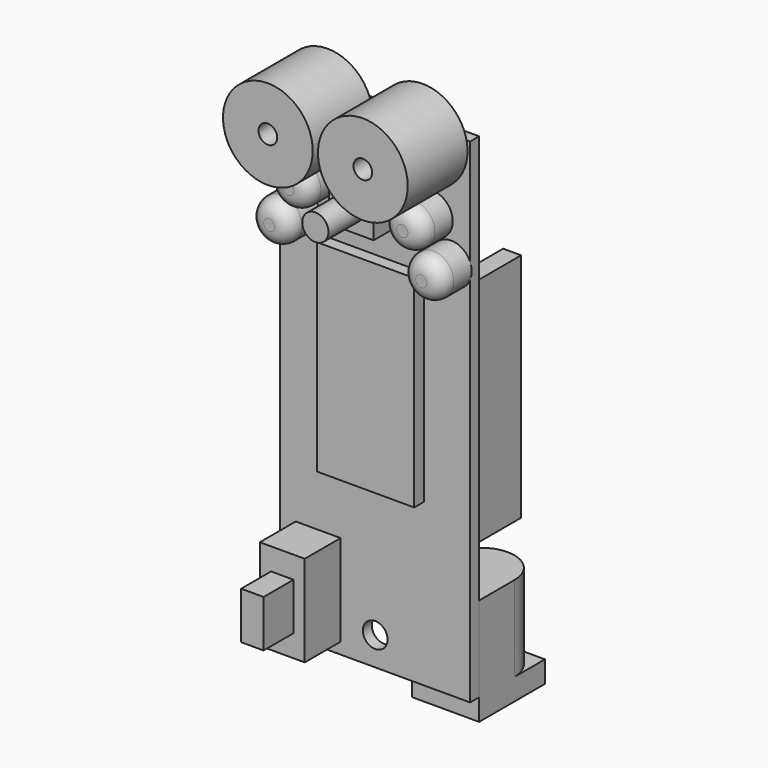
from build123d import *

# Parameters (mm, degrees)
F0_W      = 25.4
F0_H      = 66.04
F1_DEPTH  = 1.5
F2_D      = 3.3
F3_R      = 6
F4_DEPTH  = 10
F5_W      = 6
F5_H      = 6
F6_DEPTH  = 4
F7_R      = 1.75
F8_DEPTH  = 6
F9_R      = 2.75
F10_DEPTH = 5
F11_R     = 2
F11_2_R   = 2
F11_3_R   = 2
F11_4_R   = 2
F12_W     = 13
F12_H     = 27
F13_DEPTH = 1.6
F14_W     = 6
F14_H     = 12.2
F15_DEPTH = 6
F16_W     = 3
F16_H     = 6.3
F17_DEPTH = 5
F18_W     = 18.4
F18_H     = 33.8
F19_DEPTH = 3.8
F20_W     = 2.4
F20_H     = 30.9
F21_DEPTH = 8.4
F22_W     = 9
F22_H     = 14.3
F23_DEPTH = 11
F25_DEPTH = 11.4
F26_R     = 1.25
F27_DEPTH = 3


with BuildPart() as f1:
    # F0 (on Front) → F1 (new body)
    with BuildSketch(Plane.XZ):
        with Locations((0, -22.86)):
            Rectangle(F0_W, F0_H)
    extrude(amount=F1_DEPTH)

    # F2 (through all)
    with Locations(Plane(origin=(0, 0, 0), x_dir=(1, 0, 0), z_dir=(0, 1, 0))):
        with Locations((0, 52.07)):
            Hole(F2_D / 2)


with BuildPart() as f4:
    # F3 (on face) → F4 (new body)
    with BuildSketch(Plane.XZ.offset(1.5)):
        with Locations((-6.35, 8.89)):
            Circle(F3_R)
    extrude(amount=F4_DEPTH)


with BuildPart() as f4b:
    # F3 (on face) → F4, piece 2 (new body)
    with BuildSketch(Plane.XZ.offset(1.5)):
        with Locations((6.35, 8.89)):
            Circle(F3_R)
    extrude(amount=F4_DEPTH)


with BuildPart() as f6:
    # F5 (on face) → F6 (new body)
    with BuildSketch(Plane.XZ.offset(1.5)):
        Rectangle(F5_W, F5_H)
    extrude(amount=F6_DEPTH)

    # F7 (on face) → F8 (join, through all)
    with BuildSketch(Plane.XZ.offset(5.5)):
        Circle(F7_R)
    extrude(amount=F8_DEPTH)


with BuildPart() as f10:
    # F9 (on face) → F10 (new body)
    with BuildSketch(Plane.XZ.offset(1.5)):
        with Locations((-7.62, 0)):
            Circle(F9_R)
    extrude(amount=F10_DEPTH)

    # F11#2
    f11_2_edges = [f10.edges().sort_by_distance(p)[0] for p in [
        (-10.37, -6.5, 0),
    ]]
    fillet(f11_2_edges, radius=F11_2_R)


with BuildPart() as f10b:
    # F9 (on face) → F10, piece 2 (new body)
    with BuildSketch(Plane.XZ.offset(1.5)):
        with Locations((-10.16, -5.08)):
            Circle(F9_R)
    extrude(amount=F10_DEPTH)

    # F11
    f11_edges = [f10b.edges().sort_by_distance(p)[0] for p in [
        (-12.91, -6.5, -5.08),
    ]]
    fillet(f11_edges, radius=F11_R)


with BuildPart() as f10c:
    # F9 (on face) → F10, piece 3 (new body)
    with BuildSketch(Plane.XZ.offset(1.5)):
        with Locations((7.62, 0)):
            Circle(F9_R)
    extrude(amount=F10_DEPTH)

    # F11#3
    f11_3_edges = [f10c.edges().sort_by_distance(p)[0] for p in [
        (4.87, -6.5, 0),
    ]]
    fillet(f11_3_edges, radius=F11_3_R)


with BuildPart() as f10d:
    # F9 (on face) → F10, piece 4 (new body)
    with BuildSketch(Plane.XZ.offset(1.5)):
        with Locations((10.16, -5.08)):
            Circle(F9_R)
    extrude(amount=F10_DEPTH)

    # F11#4
    f11_4_edges = [f10d.edges().sort_by_distance(p)[0] for p in [
        (7.41, -6.5, -5.08),
    ]]
    fillet(f11_4_edges, radius=F11_4_R)


with BuildPart() as f13:
    # F12 (on face) → F13 (new body)
    with BuildSketch(Plane.XZ.offset(1.5)):
        with Locations((0, -20.79)):
            Rectangle(F12_W, F12_H)
    extrude(amount=F13_DEPTH)


with BuildPart() as f15:
    # F14 (on face) → F15 (new body)
    with BuildSketch(Plane.XZ.offset(1.5)):
        with Locations((-7.62, -48.26)):
            Rectangle(F14_W, F14_H)
    extrude(amount=F15_DEPTH)

    # F16 (on face) → F17 (join)
    with BuildSketch(Plane.XZ.offset(7.5)):
        with Locations((-7.62, -48.26)):
            Rectangle(F16_W, F16_H)
    extrude(amount=F17_DEPTH)


with BuildPart() as f19:
    # F18 (on Front) → F19 (new body)
    with BuildSketch(Plane.XZ):
        with Locations((0, -24.52)):
            Rectangle(F18_W, F18_H)
    extrude(amount=-F19_DEPTH)


with BuildPart() as f21:
    # F20 (on Front) → F21 (new body)
    with BuildSketch(Plane.XZ):
        with Locations((10.4, -23.07)):
            Rectangle(F20_W, F20_H)
    extrude(amount=-F21_DEPTH)


with BuildPart() as f21b:
    # F20 (on Front) → F21, piece 2 (new body)
    with BuildSketch(Plane.XZ):
        with Locations((-10.4, -23.07)):
            Rectangle(F20_W, F20_H)
    extrude(amount=-F21_DEPTH)


with BuildPart() as f23:
    # F22 (on Front) → F23 (new body)
    with BuildSketch(Plane.XZ):
        with Locations((8.2, -51.63)):
            Rectangle(F22_W, F22_H)
    extrude(amount=-F23_DEPTH)

    # F24 (on face) → F25 (cut, through all)
    with BuildSketch(Plane.XY.offset(-44.48)):
        with BuildLine():
            ThreePointArc((3.7, 5.9), (8.2, 10.4), (12.7, 5.9))
            Line((12.7, 5.9), (12.7, 11))
            Line((12.7, 11), (3.7, 11))
            Line((3.7, 11), (3.7, 5.9))
        make_face()
    extrude(amount=-F25_DEPTH, mode=Mode.SUBTRACT)


with BuildPart() as f27_tool:
    # F26 (on face) → F27 (new body)
    with BuildSketch(Plane.XZ.offset(11.5)):
        with Locations((-6.35, 8.89)):
            Circle(F26_R)
        with Locations((6.35, 8.89)):
            Circle(F26_R)
    extrude(amount=-F27_DEPTH)


with BuildPart() as f4_1:
    add(f4.part)

    # F27: cut by f27_tool
    add(f27_tool.part, mode=Mode.SUBTRACT)


with BuildPart() as f4b_1:
    add(f4b.part)

    # F27: cut by f27_tool
    add(f27_tool.part, mode=Mode.SUBTRACT)


solid = Compound([f1.part, f6.part, f10.part, f10b.part, f10c.part, f10d.part, f13.part, f15.part, f19.part, f21.part, f21b.part, f23.part, f4_1.part, f4b_1.part])
